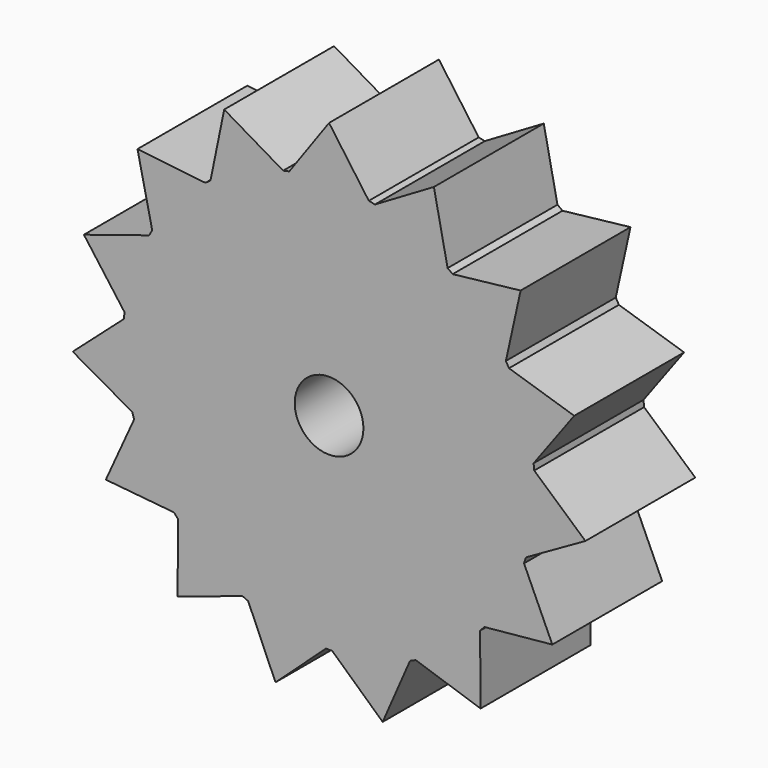
from build123d import *

# Parameters (mm, degrees)
F1_DEPTH = 12.7
F2_R     = 3.175
F3_DEPTH = 12.7


with BuildPart() as f1:
    # F0 (on Front) → F1 (new body)
    with BuildSketch(Plane.XZ):
        with BuildLine():
            ThreePointArc((-3.680107, 18.691156), (-0.001675, 19.05), (3.676821, 18.691803))
            Line((3.676821, 18.691803), (-0.001412, 23.835839))
            Line((-0.001412, 23.835839), (-3.680107, 18.691156))
        make_face()
        with BuildLine():
            ThreePointArc((-10.964323, 15.578386), (-7.749863, 17.40236), (-4.243698, 18.571309))
            Line((-4.243698, 18.571309), (-9.696199, 21.774548))
            Line((-9.696199, 21.774548), (-10.964323, 15.578386))
        make_face()
        with BuildLine():
            ThreePointArc((-16.352708, 9.771972), (-14.158029, 12.745694), (-11.430443, 15.239668))
            Line((-11.430443, 15.239668), (-17.714425, 15.94824))
            Line((-17.714425, 15.94824), (-16.352708, 9.771972))
        make_face()
        with BuildLine():
            ThreePointArc((-18.913561, 2.275895), (-18.118144, 5.885181), (-16.64076, 9.272949))
            Line((-16.64076, 9.272949), (-22.669666, 7.364337))
            Line((-22.669666, 7.364337), (-18.913561, 2.275895))
        make_face()
        with BuildLine():
            ThreePointArc((4.240433, 18.572055), (7.746803, 17.403722), (10.961584, 15.580313))
            Line((10.961584, 15.580313), (9.693619, 21.775697))
            Line((9.693619, 21.775697), (4.240433, 18.572055))
        make_face()
        with BuildLine():
            ThreePointArc((11.427763, 15.241677), (14.155788, 12.748182), (16.35099, 9.774847))
            Line((16.35099, 9.774847), (17.712536, 15.950339))
            Line((17.712536, 15.950339), (11.427763, 15.241677))
        make_face()
        with BuildLine():
            ThreePointArc((16.63913, 9.275875), (18.117109, 5.888366), (18.913161, 2.27922))
            Line((18.913161, 2.27922), (22.668794, 7.367022))
            Line((22.668794, 7.367022), (16.63913, 9.275875))
        make_face()
        with BuildLine():
            ThreePointArc((18.97344, 1.70619), (19.03085, 0.853953), (19.05, 0))
            ThreePointArc((19.05, 0), (18.837584, -2.836885), (18.205075, -5.610505))
            Line((18.205075, -5.610505), (23.705411, -2.490119))
            Line((23.705411, -2.490119), (18.97344, 1.70619))
        make_face()
        with BuildLine():
            Line((20.643148, -11.916697), (18.02707, -6.158511))
            ThreePointArc((18.02707, -6.158511), (16.498621, -9.52355), (14.349165, -12.530122))
            Line((14.349165, -12.530122), (20.643148, -11.916697))
        make_face()
        with BuildLine():
            Line((14.011497, -19.282769), (13.963655, -12.95835))
            ThreePointArc((13.963655, -12.95835), (11.198664, -15.410789), (8.012155, -17.283167))
            Line((8.012155, -17.283167), (14.011497, -19.282769))
        make_face()
        with BuildLine():
            ThreePointArc((18.205075, -5.610505), (18.837584, -2.836885), (19.05, 0))
            ThreePointArc((19.05, 0), (19.03085, 0.853953), (18.97344, 1.70619))
            ThreePointArc((18.97344, 1.70619), (18.945467, 1.992933), (18.913161, 2.27922))
            ThreePointArc((18.913161, 2.27922), (18.117109, 5.888366), (16.63913, 9.275875))
            ThreePointArc((16.63913, 9.275875), (16.496947, 9.52645), (16.35099, 9.774847))
            ThreePointArc((16.35099, 9.774847), (14.155788, 12.748182), (11.427763, 15.241677))
            ThreePointArc((11.427763, 15.241677), (11.195954, 15.412758), (10.961584, 15.580313))
            ThreePointArc((10.961584, 15.580313), (7.746803, 17.403722), (4.240433, 18.572055))
            ThreePointArc((4.240433, 18.572055), (3.95908, 18.63406), (3.676821, 18.691803))
            ThreePointArc((3.676821, 18.691803), (-0.001675, 19.05), (-3.680107, 18.691156))
            ThreePointArc((-3.680107, 18.691156), (-3.962356, 18.633364), (-4.243698, 18.571309))
            ThreePointArc((-4.243698, 18.571309), (-7.749863, 17.40236), (-10.964323, 15.578386))
            ThreePointArc((-10.964323, 15.578386), (-11.198664, 15.410789), (-11.430443, 15.239668))
            ThreePointArc((-11.430443, 15.239668), (-14.158029, 12.745694), (-16.352708, 9.771972))
            ThreePointArc((-16.352708, 9.771972), (-16.498621, 9.52355), (-16.64076, 9.272949))
            ThreePointArc((-16.64076, 9.272949), (-18.118144, 5.885181), (-18.913561, 2.275895))
            ThreePointArc((-18.913561, 2.275895), (-18.945817, 1.989602), (-18.973739, 1.702854))
            ThreePointArc((-18.973739, 1.702854), (-18.945467, -1.992933), (-18.204088, -5.613705))
            ThreePointArc((-18.204088, -5.613705), (-18.117109, -5.888366), (-18.025987, -6.161681))
            ThreePointArc((-18.025987, -6.161681), (-16.496947, -9.52645), (-14.346962, -12.532644))
            ThreePointArc((-14.346962, -12.532644), (-14.155788, -12.748182), (-13.961377, -12.960805))
            ThreePointArc((-13.961377, -12.960805), (-11.195954, -15.412758), (-8.009116, -17.284576))
            ThreePointArc((-8.009116, -17.284576), (-7.746803, -17.403722), (-7.482718, -17.518888))
            ThreePointArc((-7.482718, -17.518888), (-3.95908, -18.63406), (-0.286422, -19.047847))
            ThreePointArc((-0.286422, -19.047847), (0.001675, -19.05), (0.28977, -19.047796))
            ThreePointArc((0.28977, -19.047796), (3.962356, -18.633364), (7.485798, -17.517572))
            ThreePointArc((7.485798, -17.517572), (7.749863, -17.40236), (8.012155, -17.283167))
            ThreePointArc((8.012155, -17.283167), (11.198664, -15.410789), (13.963655, -12.95835))
            ThreePointArc((13.963655, -12.95835), (14.158029, -12.745694), (14.349165, -12.530122))
            ThreePointArc((14.349165, -12.530122), (16.498621, -9.52355), (18.02707, -6.158511))
            ThreePointArc((18.02707, -6.158511), (18.118144, -5.885181), (18.205075, -5.610505))
        make_face()
        with BuildLine():
            Line((4.957131, -23.314675), (7.485798, -17.517572))
            ThreePointArc((7.485798, -17.517572), (3.962356, -18.633364), (0.28977, -19.047796))
            Line((0.28977, -19.047796), (4.957131, -23.314675))
        make_face()
        with BuildLine():
            Line((-4.954369, -23.315262), (-0.286422, -19.047847))
            ThreePointArc((-0.286422, -19.047847), (-3.95908, -18.63406), (-7.482718, -17.518888))
            Line((-7.482718, -17.518888), (-4.954369, -23.315262))
        make_face()
        with BuildLine():
            Line((-14.009212, -19.284429), (-8.009116, -17.284576))
            ThreePointArc((-8.009116, -17.284576), (-11.195954, -15.412758), (-13.961377, -12.960805))
            Line((-13.961377, -12.960805), (-14.009212, -19.284429))
        make_face()
        with BuildLine():
            Line((-20.641736, -11.919142), (-14.346962, -12.532644))
            ThreePointArc((-14.346962, -12.532644), (-16.496947, -9.52645), (-18.025987, -6.161681))
            Line((-18.025987, -6.161681), (-20.641736, -11.919142))
        make_face()
        with BuildLine():
            Line((-23.705116, -2.492928), (-18.204088, -5.613705))
            ThreePointArc((-18.204088, -5.613705), (-18.945467, -1.992933), (-18.973739, 1.702854))
            Line((-18.973739, 1.702854), (-23.705116, -2.492928))
        make_face()
    extrude(amount=F1_DEPTH)

    # F2 (on face) → F3 (cut)
    with BuildSketch(Plane.XZ.offset(12.7)):
        Circle(F2_R)
    extrude(amount=-F3_DEPTH, mode=Mode.SUBTRACT)


solid = f1.part
